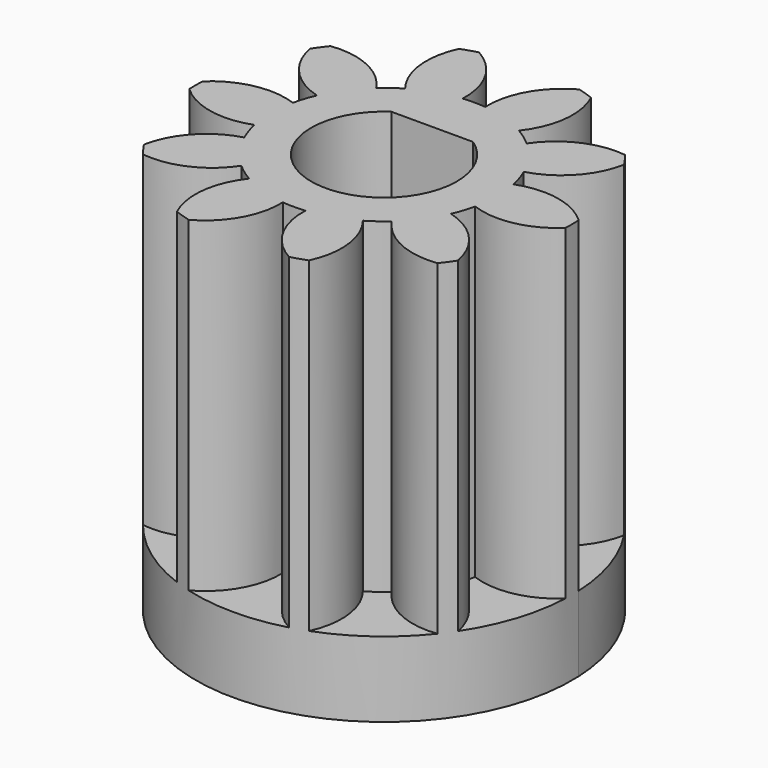
from build123d import *

# Parameters (mm, degrees)
F0_R     = 7.5
F1_DEPTH = 16
F3_DEPTH = 16
F4_COUNT = 10
F5_R     = 7.5
F6_DEPTH = 3
F8_DEPTH = 3


with BuildPart() as f1:
    # F0 (on Top) → F1 (new body)
    with BuildSketch(Plane.XY):
        Circle(F0_R)
        with BuildLine():
            ThreePointArc((1.6278820596, 2.4), (0, -2.9), (-1.6278820596, 2.4))
            Line((-1.6278820596, 2.4), (1.6278820596, 2.4))
        make_face(mode=Mode.SUBTRACT)
    extrude(amount=F1_DEPTH)

    # F2 (on face) → F3 (cut, through all)
    with BuildSketch(Plane.XY.offset(16)):
        with BuildLine():
            ThreePointArc((0.45, 4.477443467), (0.833787098, 6.0733536603), (2, 7.2284161474))
            ThreePointArc((2, 7.2284161474), (0, 7.5), (-2, 7.2284161474))
            ThreePointArc((-2, 7.2284161474), (-0.833787098, 6.0733536603), (-0.45, 4.477443467))
            ThreePointArc((-0.45, 4.477443467), (0, 4.5), (0.45, 4.477443467))
        make_face()
    f3 = extrude(amount=-F3_DEPTH, mode=Mode.SUBTRACT)

    # F4: F3 ×10 about axis
    f4_axis = Axis((0, 0, 0), (0, 0, -1))
    for i in range(1, F4_COUNT):
        add(f3.rotate(f4_axis, i * 360 / F4_COUNT), mode=Mode.SUBTRACT)

    # F5 (on Top) → F6 (join)
    with BuildSketch(Plane.XY):
        Circle(F5_R)
    extrude(amount=F6_DEPTH)

    # F7 (on face) → F8 (cut, through all)
    with BuildSketch(Plane.XY.offset(3)):
        with BuildLine():
            Line((1.6278820596, 2.4), (-1.6278820596, 2.4))
            ThreePointArc((-1.6278820596, 2.4), (0, -2.9), (1.6278820596, 2.4))
        make_face()
    extrude(amount=-F8_DEPTH, mode=Mode.SUBTRACT)


solid = f1.part
